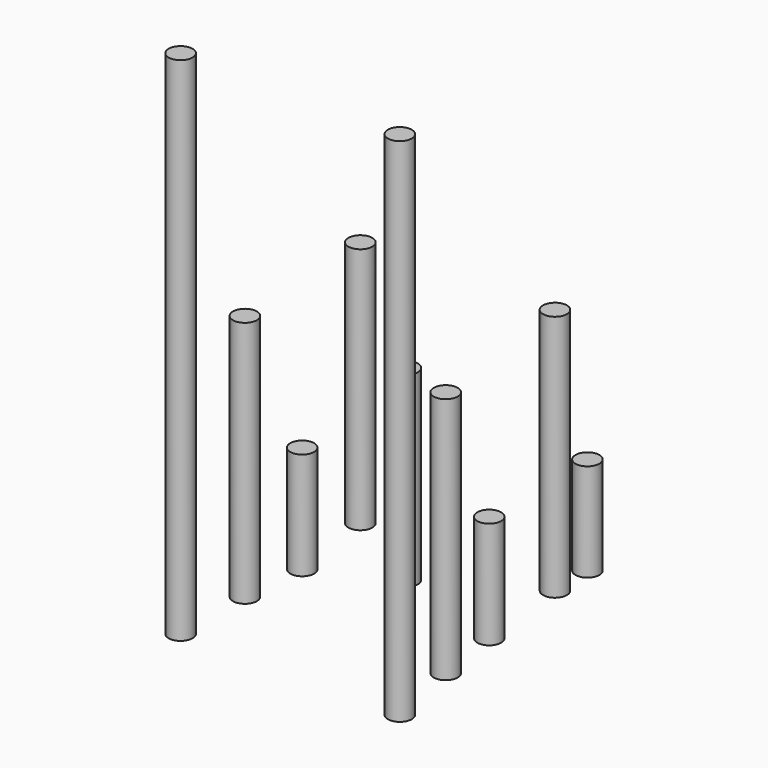
from build123d import *

# Parameters (mm, degrees)
F0_R      = 2.4765
F1_DEPTH  = 106.045
F2_R      = 2.4765
F3_DEPTH  = 51.308
F4_R      = 2.4765
F5_DEPTH  = 22.225
F6_R      = 2.4765
F7_DEPTH  = 38.735
F8_R      = 2.4765
F9_DEPTH  = 51.308
F10_R     = 2.4765
F11_DEPTH = 20.32


with BuildPart() as f1:
    # F0 (on Top) → F1 (new body)
    with BuildSketch(Plane.XY):
        with Locations((-22.123978, 0)):
            Circle(F0_R)
        with Locations((23.33625, 0)):
            Circle(F0_R)
    extrude(amount=F1_DEPTH)


with BuildPart() as f3:
    # F2 (on Top) → F3 (new body)
    with BuildSketch(Plane.XY):
        with Locations((-22.123978, 16.66875)):
            Circle(F2_R)
        with Locations((20.002501, 16.062614)):
            Circle(F2_R)
    extrude(amount=F3_DEPTH)


with BuildPart() as f5:
    # F4 (on Top) → F5 (new body)
    with BuildSketch(Plane.XY):
        with Locations((-20.911705, 30.003751)):
            Circle(F4_R)
        with Locations((17.881023, 30.003751)):
            Circle(F4_R)
    extrude(amount=F5_DEPTH)


with BuildPart() as f7:
    # F6 (on Top) → F7 (new body)
    with BuildSketch(Plane.XY):
        with Locations((-5.455227, 37.580457)):
            Circle(F6_R)
    extrude(amount=F7_DEPTH)


with BuildPart() as f9:
    # F8 (on Top) → F9 (new body)
    with BuildSketch(Plane.XY):
        with Locations((-23.639319, 48.490912)):
            Circle(F8_R)
        with Locations((15.759546, 49.703185)):
            Circle(F8_R)
    extrude(amount=F9_DEPTH)


with BuildPart() as f11:
    # F10 (on Top) → F11 (new body)
    with BuildSketch(Plane.XY):
        with Locations((-22.427047, 58.189094)):
            Circle(F10_R)
        with Locations((15.456477, 58.492161)):
            Circle(F10_R)
    extrude(amount=F11_DEPTH)


solid = Compound([f1.part, f3.part, f5.part, f7.part, f9.part, f11.part])
